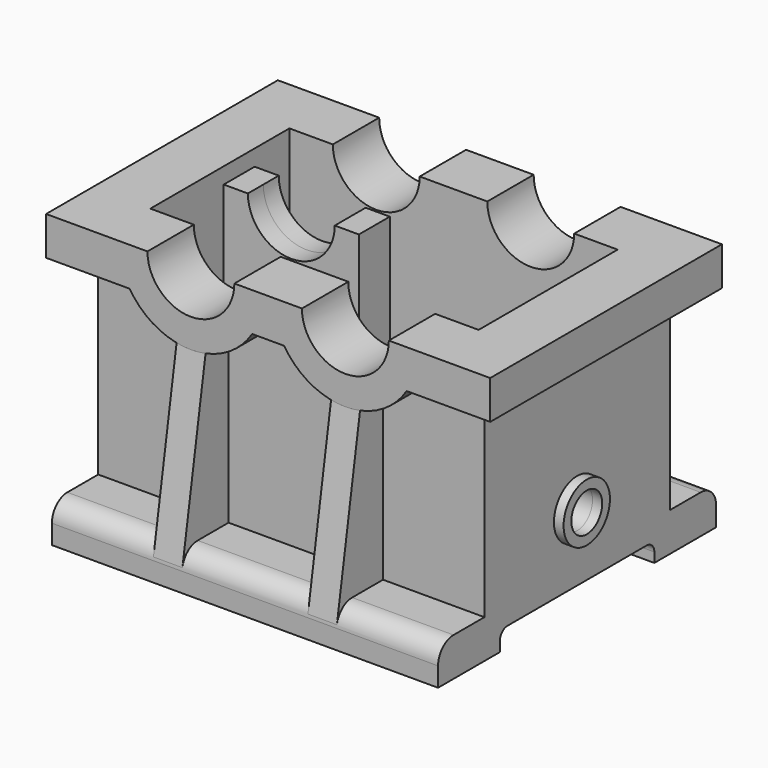
from build123d import *

# Parameters (mm, degrees)
F0_W           = 200
F0_H           = 120
F1_DEPTH       = 100
F2_T           = -15
F3_W           = 230
F3_H           = 150
F3_W_2         = 170
F3_H_2         = 90
F4_DEPTH       = 20
F5_W           = 200
F5_H           = 180
F6_DEPTH       = 20
F7_W           = 100
F7_H           = 10
F8_DEPTH       = 200
F9_R           = 5
F11_DEPTH      = 75
F11_DEPTH_BACK = 75
F12_DEPTH      = 45
F12_DEPTH_BACK = 45
F13_R          = 22.5
F14_DEPTH      = 200
F14_DEPTH_BACK = 200
F15_R          = 10
F19_DEPTH      = 7.5
F19_DEPTH_BACK = 7.5
F21_DEPTH      = 7.5
F21_DEPTH_BACK = 7.5
F22_DEPTH      = 200
F22_DEPTH_BACK = 200
F23_DEPTH      = 10
F24_R          = 10
F24_R_2        = 5
F25_DEPTH      = 10
F26_DEPTH      = 25
F27_R          = 15
F27_R_2        = 10
F28_DEPTH      = 5
F29_DEPTH      = 25
F30_W          = 70
F30_H          = 20
F31_DEPTH      = 115
F32_DEPTH      = 25
F32_DEPTH_BACK = 25


with BuildPart() as f1:
    # F0 (on Top) → F1 (new body)
    with BuildSketch(Plane.XY):
        Rectangle(F0_W, F0_H)
    extrude(amount=F1_DEPTH)

    # F2
    f2_openings = [f1.faces().sort_by_distance(p)[0] for p in [
        (0, 0, 100),
    ]]
    offset(amount=F2_T, openings=f2_openings)

    # F3 (on face) → F4 (join)
    with BuildSketch(Plane.XY.offset(100)):
        Rectangle(F3_W, F3_H)
        Rectangle(F3_W_2, F3_H_2, mode=Mode.SUBTRACT)
    extrude(amount=F4_DEPTH)

    # F5 (on face) → F6 (join)
    with BuildSketch(Plane(origin=(0, 0, 0), x_dir=(1, 0, 0), z_dir=(0, 0, -1))):
        Rectangle(F5_W, F5_H)
    extrude(amount=F6_DEPTH)

    # F7 (on face) → F8 (cut)
    with BuildSketch(Plane(origin=(-100, 0, 0), x_dir=(0, -1, 0), z_dir=(-1, 0, 0))):
        with Locations((0, -15)):
            Rectangle(F7_W, F7_H)
    extrude(amount=-F8_DEPTH, mode=Mode.SUBTRACT)

    # F9
    f9_edges = [f1.edges().sort_by_distance(p)[0] for p in [
        (0, -50, -10),
        (0, 50, -10),
    ]]
    fillet(f9_edges, radius=F9_R)

    # F10 (on Front) → F11 (join, two sides)
    with BuildSketch(Plane.XZ) as f11_sk:
        with BuildLine():
            Line((-2.5, 120), (-77.5, 120))
            ThreePointArc((-77.5, 120), (-40, 82.5), (-2.5, 120))
        make_face()
        with BuildLine():
            Line((77.5, 120), (2.5, 120))
            ThreePointArc((2.5, 120), (40, 82.5), (77.5, 120))
        make_face()
    extrude(amount=F11_DEPTH)
    extrude(f11_sk.sketch, amount=-F11_DEPTH_BACK)

    # F10 (on Front) → F12 (cut, two sides)
    with BuildSketch(Plane.XZ) as f12_sk:
        with BuildLine():
            Line((-2.5, 120), (-77.5, 120))
            ThreePointArc((-77.5, 120), (-40, 82.5), (-2.5, 120))
        make_face()
        with BuildLine():
            Line((77.5, 120), (2.5, 120))
            ThreePointArc((2.5, 120), (40, 82.5), (77.5, 120))
        make_face()
    extrude(amount=F12_DEPTH, mode=Mode.SUBTRACT)
    extrude(f12_sk.sketch, amount=-F12_DEPTH_BACK, mode=Mode.SUBTRACT)

    # F13 (on Front) → F14 (cut, two sides)
    with BuildSketch(Plane.XZ) as f14_sk:
        with Locations((-40, 120)):
            Circle(F13_R)
        with Locations((40, 120)):
            Circle(F13_R)
    extrude(amount=-F14_DEPTH, mode=Mode.SUBTRACT)
    extrude(f14_sk.sketch, amount=F14_DEPTH_BACK, mode=Mode.SUBTRACT)

    # F15
    f15_edges = [f1.edges().sort_by_distance(p)[0] for p in [
        (0, -90, 0),
        (0, 90, 0),
    ]]
    fillet(f15_edges, radius=F15_R)

    # F18 (on offset) → F19 (join, two sides)
    with BuildSketch(Plane.YZ.offset(40)) as f19_sk:
        Polygon((75, 82.5), (72.1370113349, 100), (60, 100), (60, 82.5), align=None)
        Polygon((89.8688040333, -8.3854700523), (75, 82.5), (60, 82.5), (60, -8.3854700523), align=None)
        Polygon((-60, 100), (-72.1370113349, 100), (-89.8688040333, -8.3854700523), (-60, -8.3854700523), align=None)
    extrude(amount=F19_DEPTH)
    extrude(f19_sk.sketch, amount=-F19_DEPTH_BACK)

    # F20 (on offset) → F21 (join, two sides)
    with BuildSketch(Plane.YZ.offset(-40)) as f21_sk:
        Polygon((89.8688040333, -8.3854700523), (72.1370113349, 100), (60, 100), (60, -8.3854700523), align=None)
        Polygon((-89.8688040333, -8.3854700523), (-60, -8.3854700523), (-60, 100), (-72.1370113349, 100), align=None)
    extrude(amount=F21_DEPTH)
    extrude(f21_sk.sketch, amount=-F21_DEPTH_BACK)

    # F13 (on Front) → F22 (cut, two sides)
    with BuildSketch(Plane.XZ) as f22_sk:
        with Locations((-40, 120)):
            Circle(F13_R)
        with Locations((40, 120)):
            Circle(F13_R)
    extrude(amount=-F22_DEPTH, mode=Mode.SUBTRACT)
    extrude(f22_sk.sketch, amount=F22_DEPTH_BACK, mode=Mode.SUBTRACT)

    # F23 (cut): a face of the model
    f23_faces = [f1.faces().sort_by_distance(p)[0] for p in [
        (0, 0, 15),
    ]]
    extrude(f23_faces, amount=-F23_DEPTH, mode=Mode.SUBTRACT)

    # F24 (on face) → F25 (join)
    with BuildSketch(Plane(origin=(-100, 0, 0), x_dir=(0, -1, 0), z_dir=(-1, 0, 0))):
        with Locations((0, 10)):
            Circle(F24_R)
        with Locations((0, 10)):
            Circle(F24_R_2, mode=Mode.SUBTRACT)
    extrude(amount=F25_DEPTH)

    # F26 (cut): a face of the model
    f26_faces = [f1.faces().sort_by_distance(p)[0] for p in [
        (-100, 0, 10),
    ]]
    extrude(f26_faces, amount=-F26_DEPTH, mode=Mode.SUBTRACT)

    # F27 (on face) → F28 (join)
    with BuildSketch(Plane.YZ.offset(100)):
        with Locations((0, 25)):
            Circle(F27_R)
        with Locations((0, 25)):
            Circle(F27_R_2, mode=Mode.SUBTRACT)
    extrude(amount=F28_DEPTH)

    # F29 (cut): a face of the model
    f29_faces = [f1.faces().sort_by_distance(p)[0] for p in [
        (100, 0, 25),
    ]]
    extrude(f29_faces, amount=-F29_DEPTH, mode=Mode.SUBTRACT)

    # F30 (on face) → F31 (join, through all)
    with BuildSketch(Plane.XY.offset(5)):
        with Locations((-40, 0)):
            Rectangle(F30_W, F30_H)
    extrude(amount=F31_DEPTH)

    # F13 (on Front) → F32 (cut, two sides)
    with BuildSketch(Plane.XZ) as f32_sk:
        with Locations((-40, 120)):
            Circle(F13_R)
        with Locations((40, 120)):
            Circle(F13_R)
    extrude(amount=-F32_DEPTH, mode=Mode.SUBTRACT)
    extrude(f32_sk.sketch, amount=F32_DEPTH_BACK, mode=Mode.SUBTRACT)


solid = f1.part
